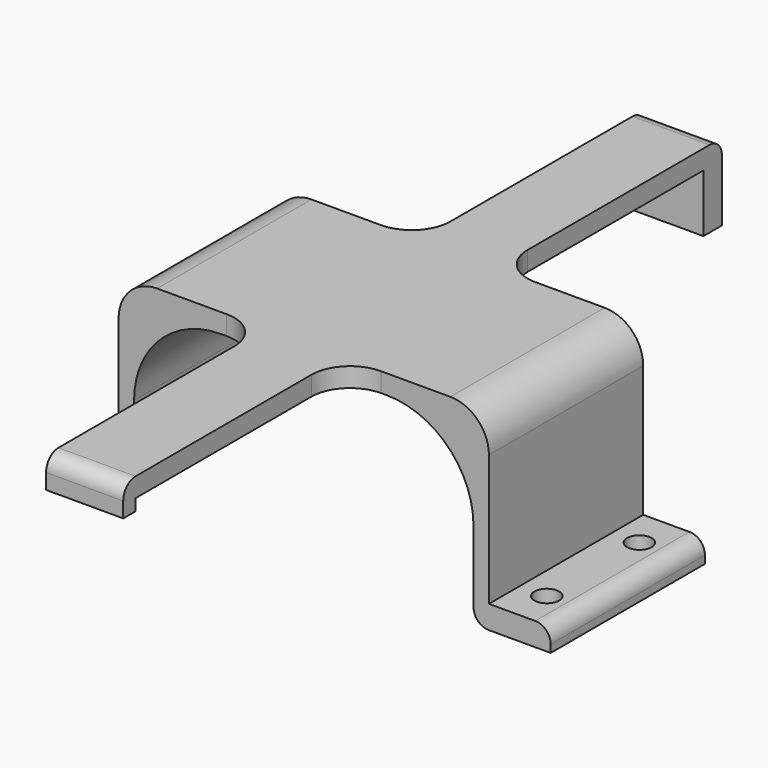
from build123d import *

# Parameters (mm, degrees)
F0_W      = 48
F0_H      = 25
F1_DEPTH  = 25
F3_DEPTH  = 25
F4_W      = 10
F4_H      = 33.5
F5_DEPTH  = 2.5
F6_W      = 10
F6_H      = 1.5
F6_H_2    = 2.5
F7_DEPTH  = 2
F8_W      = 10
F8_H      = 7.5
F8_H_2    = 2.5
F9_DEPTH  = 3
F10_W     = 8
F10_H     = 25
F11_DEPTH = 3
F12_R     = 1.6
F13_DEPTH = 3
F14_R     = 5
F15_R     = 2


with BuildPart() as f1:
    # F0 (on Front) → F1 (new body)
    with BuildSketch(Plane.XZ):
        Rectangle(F0_W, F0_H)
    extrude(amount=-F1_DEPTH)

    # F2 (on face) → F3 (cut, through all)
    with BuildSketch(Plane.XZ):
        with BuildLine():
            ThreePointArc((-22, -1.25), (-18.7049512883, -9.2049512883), (-10.75, -12.5))
            Line((-10.75, -12.5), (10.75, -12.5))
            ThreePointArc((10.75, -12.5), (18.7049512883, -9.2049512883), (22, -1.25))
            ThreePointArc((22, -1.25), (18.7049512883, 6.7049512883), (10.75, 10))
            Line((10.75, 10), (-10.75, 10))
            ThreePointArc((-10.75, 10), (-18.7049512883, 6.7049512883), (-22, -1.25))
        make_face()
        with BuildLine():
            Line((-22, -12.5), (-10.75, -12.5))
            ThreePointArc((-10.75, -12.5), (-18.7049512883, -9.2049512883), (-22, -1.25))
            Line((-22, -1.25), (-22, -12.5))
        make_face()
        with BuildLine():
            ThreePointArc((22, -1.25), (18.7049512883, -9.2049512883), (10.75, -12.5))
            Line((10.75, -12.5), (22, -12.5))
            Line((22, -12.5), (22, -1.25))
        make_face()
    extrude(amount=-F3_DEPTH, mode=Mode.SUBTRACT)

    # F4 (on face) → F5 (join, through all)
    with BuildSketch(Plane.XY.offset(12.5)):
        with Locations((0, 41.75)):
            Rectangle(F4_W, F4_H)
        with Locations((0, -16.75)):
            Rectangle(F4_W, F4_H)
    extrude(amount=-F5_DEPTH)

    # F6 (on face) → F7 (join)
    with BuildSketch(Plane.XZ.offset(33.5)):
        with Locations((0, 9.25)):
            Rectangle(F6_W, F6_H)
        with Locations((0, 11.25)):
            Rectangle(F6_W, F6_H_2)
    extrude(amount=F7_DEPTH)

    # F8 (on face) → F9 (join)
    with BuildSketch(Plane(origin=(0, 58.5, 0), x_dir=(-1, 0, 0), z_dir=(0, 1, 0))):
        with Locations((0, 6.25)):
            Rectangle(F8_W, F8_H)
        with Locations((0, 11.25)):
            Rectangle(F8_W, F8_H_2)
    extrude(amount=F9_DEPTH)

    # F10 (on face) → F11 (join)
    with BuildSketch(Plane(origin=(0, 0, -12.5), x_dir=(1, 0, 0), z_dir=(0, 0, -1))):
        with Locations((-28, -12.5)):
            Rectangle(F10_W, F10_H)
        with Locations((28, -12.5)):
            Rectangle(F10_W, F10_H)
    extrude(amount=-F11_DEPTH)

    # F12 (on face) → F13 (cut, through all)
    with BuildSketch(Plane(origin=(0, 0, -12.5), x_dir=(1, 0, 0), z_dir=(0, 0, -1))):
        with Locations((-27.5, -5)):
            Circle(F12_R)
        with Locations((-27.5, -20)):
            Circle(F12_R)
        with Locations((27.5, -20)):
            Circle(F12_R)
        with Locations((27.5, -5)):
            Circle(F12_R)
    extrude(amount=-F13_DEPTH, mode=Mode.SUBTRACT)

    # F14
    f14_edges = [f1.edges().sort_by_distance(p)[0] for p in [
        (-24, 12.5, 12.5),
        (24, 12.5, 12.5),
        (-5, 25, 11.25),
        (-5, 0, 11.25),
        (5, 0, 11.25),
        (5, 25, 11.25),
    ]]
    fillet(f14_edges, radius=F14_R)

    # F15
    f15_edges = [f1.edges().sort_by_distance(p)[0] for p in [
        (0, 61.5, 12.5),
        (0, -35.5, 12.5),
        (22, 12.5, -12.5),
        (-22, 12.5, -12.5),
        (-32, 12.5, -9.5),
        (32, 12.5, -9.5),
    ]]
    fillet(f15_edges, radius=F15_R)


solid = f1.part
